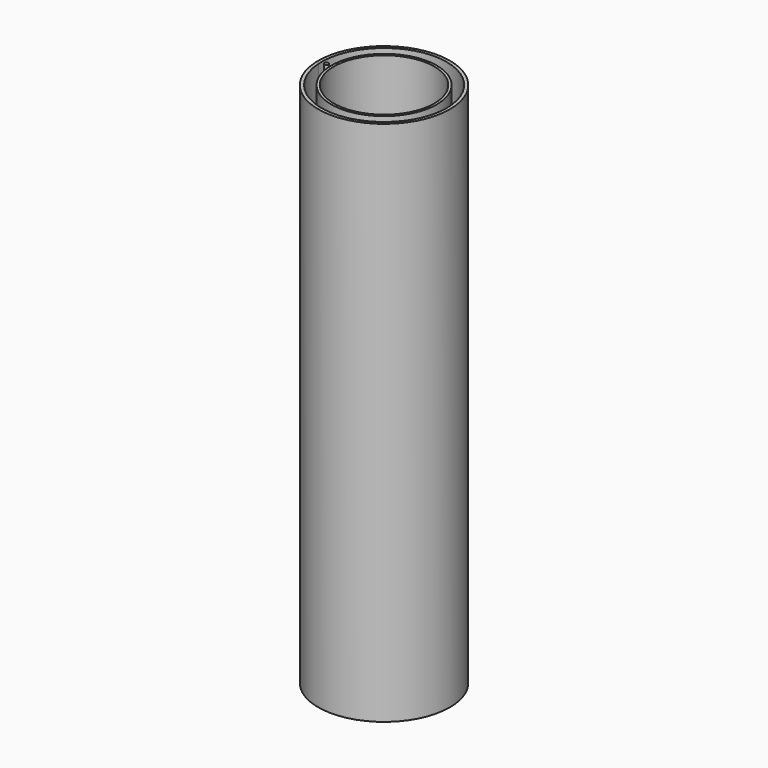
from build123d import *

# Parameters (mm, degrees)
F0_R     = 100.220748
F0_R_2   = 95.320748
F1_DEPTH = 1000
F0_R_3   = 4
F2_DEPTH = 1000
F3_DEPTH = 24
F0_R_4   = 125.00763
F4_DEPTH = 1000
F5_DEPTH = 15


with BuildPart() as f1:
    # F0 (on Top) → F1 (new body)
    with BuildSketch(Plane.XY):
        Circle(F0_R)
        Circle(F0_R_2, mode=Mode.SUBTRACT)
    extrude(amount=F1_DEPTH)


with BuildPart() as f2:
    # F0 (on Top) → F2 (new body)
    with BuildSketch(Plane.XY):
        with Locations((-109.30763, 0)):
            Circle(F0_R_3)
    extrude(amount=F2_DEPTH)


with BuildPart() as f3:
    # F0 (on Top) → F3 (new body)
    with BuildSketch(Plane.XY):
        with BuildLine():
            ThreePointArc((-101.80763, 0), (-104.004329, 5.303301), (-109.30763, 7.5))
            ThreePointArc((-109.30763, 7.5), (-116.80763, 0), (-109.30763, -7.5))
            ThreePointArc((-109.30763, -7.5), (-104.004329, -5.303301), (-101.80763, 0))
        make_face()
        with Locations((-109.30763, 0)):
            Circle(F0_R_3, mode=Mode.SUBTRACT)
    extrude(amount=F3_DEPTH)


with BuildPart() as f4:
    # F0 (on Top) → F4 (new body)
    with BuildSketch(Plane.XY):
        Circle(F0_R_4)
        with BuildLine():
            ThreePointArc((-118.570666, 7.5), (3.751871, 118.748374), (118.80763, 0))
            ThreePointArc((118.80763, 0), (3.751871, -118.748374), (-118.570666, -7.5))
            ThreePointArc((-118.570666, -7.5), (-118.80763, 0), (-118.570666, 7.5))
        make_face(mode=Mode.SUBTRACT)
    extrude(amount=F4_DEPTH)


with BuildPart() as f5:
    # F0 (on Top) → F5 (new body)
    with BuildSketch(Plane.XY):
        with BuildLine():
            Line((-109.30763, 7.5), (-118.570666, 7.5))
            ThreePointArc((-118.570666, 7.5), (-118.80763, 0), (-118.570666, -7.5))
            Line((-118.570666, -7.5), (-109.30763, -7.5))
            ThreePointArc((-109.30763, -7.5), (-116.80763, 0), (-109.30763, 7.5))
        make_face()
        with BuildLine():
            ThreePointArc((-101.80763, 0), (-104.004329, 5.303301), (-109.30763, 7.5))
            ThreePointArc((-109.30763, 7.5), (-116.80763, 0), (-109.30763, -7.5))
            ThreePointArc((-109.30763, -7.5), (-104.004329, -5.303301), (-101.80763, 0))
        make_face()
        with Locations((-109.30763, 0)):
            Circle(F0_R_3, mode=Mode.SUBTRACT)
    extrude(amount=F5_DEPTH)


solid = Compound([f1.part, f2.part, f3.part, f4.part, f5.part])
